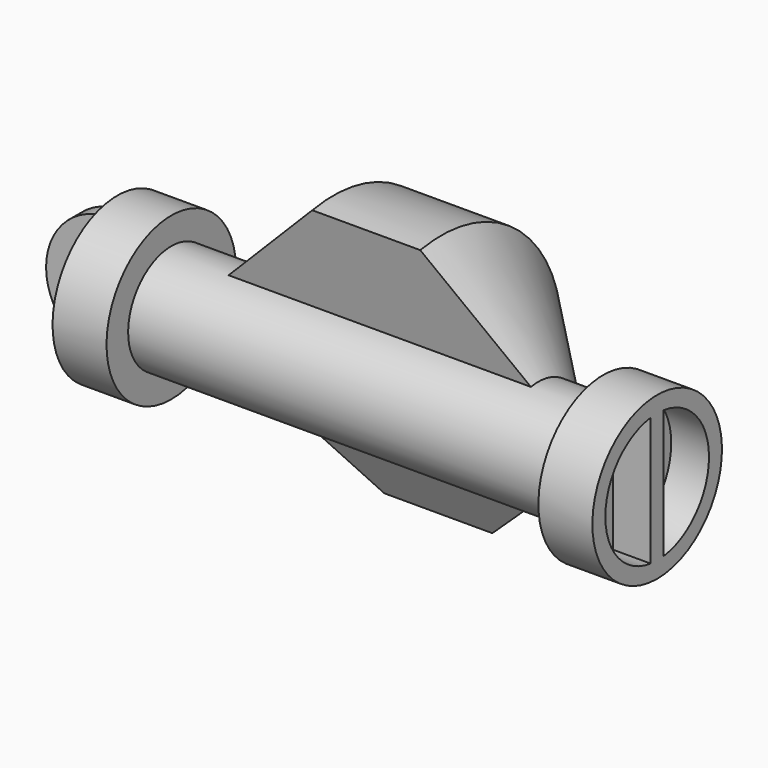
from build123d import *

# Parameters (mm, degrees)
CYLINDER1033_W               = 6
CYLINDER1033_H               = 1.5
CYLINDER1033_ANGLE           = 180
CYLINDER1029_R               = 7.5
CYLINDER1029_DEPTH           = 5
CYLINDER1029_PITCH_ANGLE     = 90
THICKNESS001_T               = -1.5
BOX025_W                     = 4
BOX025_H                     = 1.5
BOX025_DEPTH                 = 12
CYLINDER1027_R               = 5
CYLINDER1027_DEPTH           = 40
CYLINDER1027_PITCH_ANGLE     = 90
CYLINDER1026_W               = 14
CYLINDER1026_H               = 10
CYLINDER1026_ANGLE           = 165
CYLINDER1026_ROLL_ANGLE      = 90
CYLINDER1026_PITCH_ANGLE     = 65
CYLINDER1026_PLACEMENT_ANGLE = 90
CONE001_ANGLE                = 165
CONE001_ROLL_ANGLE           = 90
CONE001_PITCH_ANGLE          = 65
CONE001_PLACEMENT_ANGLE      = 90


with BuildPart() as cylinder1047:
    # Cylinder1033 → Cylinder1033 (revolve)
    with BuildSketch(Plane(origin=(0, 70.75, 15), x_dir=(0, 0, 1), z_dir=(1, 0, 0))):
        with Locations((3, 0.75)):
            Rectangle(CYLINDER1033_W, CYLINDER1033_H)
    revolve(axis=Axis((0, 70.75, 15), (0, -1, 0)), revolution_arc=CYLINDER1033_ANGLE)


with BuildPart() as thickness001:
    # Cylinder1029 → Cylinder1029 (new body)
    with BuildSketch(Plane.XY):
        Circle(CYLINDER1029_R)
    extrude(amount=CYLINDER1029_DEPTH)


with BuildPart() as thickness001_1:
    # Cylinder1029 pitch: moved
    add(thickness001.part.rotate(Axis((0, 0, 0), (0, 1, 0)), CYLINDER1029_PITCH_ANGLE))


with BuildPart() as thickness001_2:
    # Cylinder1029 placement: moved
    add(thickness001_1.part.moved(Location((45, 70, 15))))

    # Thickness001
    thickness001_openings = [thickness001_2.faces().sort_by_distance(p)[0] for p in [
        (50, 70, 15),
    ]]
    offset(amount=THICKNESS001_T, openings=thickness001_openings)


with BuildPart() as fusion028:
    # Box025 → Box025 (new body)
    with BuildSketch(Plane(origin=(46, 69.25, 9), x_dir=(1, 0, 0), z_dir=(0, 0, 1))):
        with Locations((2, 0.75)):
            Rectangle(BOX025_W, BOX025_H)
    extrude(amount=BOX025_DEPTH)

    # Fusion028: union Thickness001
    add(thickness001_2.part)


with BuildPart() as cylinder1042:
    # Cylinder1027 → Cylinder1027 (new body)
    with BuildSketch(Plane.XY):
        Circle(CYLINDER1027_R)
    extrude(amount=CYLINDER1027_DEPTH)


with BuildPart() as cylinder1042_1:
    # Cylinder1027 pitch: moved
    add(cylinder1042.part.rotate(Axis((0, 0, 0), (0, 1, 0)), CYLINDER1027_PITCH_ANGLE))


with BuildPart() as cylinder1042_2:
    # Cylinder1027 placement: moved
    add(cylinder1042_1.part.moved(Location((5, 70, 15))))


with BuildPart() as cylinder1041:
    # Cylinder1026 → Cylinder1026 (revolve)
    with BuildSketch(Plane.XZ):
        with Locations((7, 5)):
            Rectangle(CYLINDER1026_W, CYLINDER1026_H)
    revolve(axis=Axis((0, 0, 0), (0, 0, 1)), revolution_arc=CYLINDER1026_ANGLE)


with BuildPart() as cylinder1041_1:
    # Cylinder1026 roll: moved
    add(cylinder1041.part.rotate(Axis((0, 0, 0), (1, 0, 0)), CYLINDER1026_ROLL_ANGLE))


with BuildPart() as cylinder1041_2:
    # Cylinder1026 pitch: moved
    add(cylinder1041_1.part.rotate(Axis((0, 0, 0), (0, 1, 0)), CYLINDER1026_PITCH_ANGLE))


with BuildPart() as cylinder1041_3:
    # Cylinder1026 placement: moved
    add(cylinder1041_2.part.moved(Location((20, 70, 15))).rotate(Axis((20, 70, 15), (0, 0, 1)), CYLINDER1026_PLACEMENT_ANGLE))


with BuildPart() as cone001:
    # Cone001 → Cone001 (revolve)
    with BuildSketch(Plane.XZ):
        Polygon((0, 0), (14, 14), (0, 14), align=None)
    revolve(axis=Axis((0, 0, 0), (0, 0, 1)), revolution_arc=CONE001_ANGLE)


with BuildPart() as cone001_1:
    # Cone001 roll: moved
    add(cone001.part.rotate(Axis((0, 0, 0), (1, 0, 0)), CONE001_ROLL_ANGLE))


with BuildPart() as cone001_2:
    # Cone001 pitch: moved
    add(cone001_1.part.rotate(Axis((0, 0, 0), (0, 1, 0)), CONE001_PITCH_ANGLE))


with BuildPart() as cone001_3:
    # Cone001 placement: moved
    add(cone001_2.part.moved(Location((6, 70, 15))).rotate(Axis((6, 70, 15), (0, 0, 1)), CONE001_PLACEMENT_ANGLE))


with BuildPart() as part_mirroring004:
    # Part__Mirroring004: instance of Cone001
    add(cone001_3.part.mirror(Plane(origin=(25, 0, 0), x_dir=(0, -1, 0), z_dir=(1, 0, 0))))


with BuildPart() as fusion050:
    # Part__Mirroring001: instance of Fusion028
    add(fusion028.part.mirror(Plane(origin=(25, 0, 0), x_dir=(0, -1, 0), z_dir=(1, 0, 0))))

    # Fusion031: union Fusion028, Cylinder1042, Cylinder1041, Part__Mirroring004, Cone001
    add(fusion028.part)
    add(cylinder1042_2.part)
    add(cylinder1041_3.part)
    add(part_mirroring004.part)
    add(cone001_3.part)

    # Fusion050: union Cylinder1047
    add(cylinder1047.part)


solid = fusion050.part
